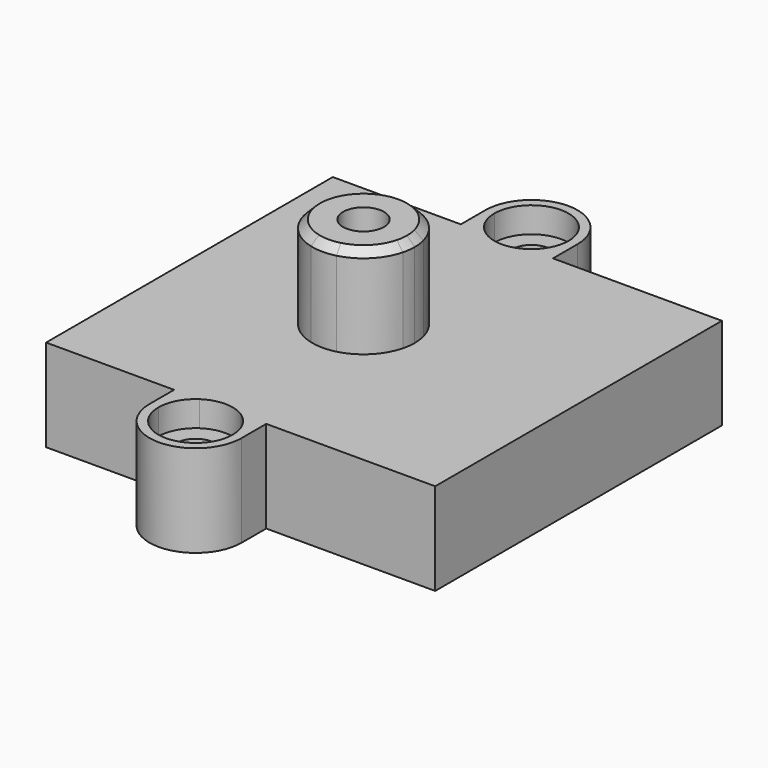
from build123d import *

# Parameters (mm, degrees)
F0_W     = 34
F0_H     = 31
F1_DEPTH = 9
F2_DEPTH = 6.5
F3_START = 6
F0_W_2   = 2.5
F0_H_2   = 3
F3_DEPTH = 3
F4_START = 6
F0_R     = 2
F4_DEPTH = 12
F5_SIZE  = 0.75
F6_SIZE  = 0.75


with BuildPart() as f1:
    # F0 (on Top) → F1 (new body)
    with BuildSketch(Plane.XY):
        with BuildLine():
            Line((-4.5, 17.5), (-17, 17.5))
            Line((-17, 17.5), (-17, -17.5))
            Line((-17, -17.5), (-4.5, -17.5))
            Line((-4.5, -17.5), (-2.0348525745, -17.5))
            ThreePointArc((-2.0348525745, -17.5), (0, -16.875), (2.0348525745, -17.5))
            Line((2.0348525745, -17.5), (4.5, -17.5))
            Line((4.5, -17.5), (21, -17.5))
            Line((21, -17.5), (21, 17.5))
            Line((21, 17.5), (4.5, 17.5))
            Line((4.5, 17.5), (2.0348525745, 17.5))
            ThreePointArc((2.0348525745, 17.5), (0, 16.875), (-2.0348525745, 17.5))
            Line((-2.0348525745, 17.5), (-4.5, 17.5))
        make_face()
        with Locations((2, 0)):
            Rectangle(F0_W, F0_H, mode=Mode.SUBTRACT)
        with BuildLine():
            Line((-4.5, 20.5), (-4.5, 17.5))
            Line((-4.5, 17.5), (-2.0348525745, 17.5))
            ThreePointArc((-2.0348525745, 17.5), (-3.2028866342, 18.8023126882), (-3.625, 20.5))
            Line((-3.625, 20.5), (-4.5, 20.5))
        make_face()
        with BuildLine():
            ThreePointArc((4.5, 20.5), (0, 25), (-4.5, 20.5))
            Line((-4.5, 20.5), (-3.625, 20.5))
            ThreePointArc((-3.625, 20.5), (0, 24.125), (3.625, 20.5))
            Line((3.625, 20.5), (4.5, 20.5))
        make_face()
        with BuildLine():
            ThreePointArc((3.625, 20.5), (3.2028866342, 18.8023126882), (2.0348525745, 17.5))
            Line((2.0348525745, 17.5), (4.5, 17.5))
            Line((4.5, 17.5), (4.5, 20.5))
            Line((4.5, 20.5), (3.625, 20.5))
        make_face()
        with BuildLine():
            Line((4.5, -17.5), (2.0348525745, -17.5))
            ThreePointArc((2.0348525745, -17.5), (3.2028866342, -18.8023126882), (3.625, -20.5))
            Line((3.625, -20.5), (4.5, -20.5))
            Line((4.5, -20.5), (4.5, -17.5))
        make_face()
        with BuildLine():
            Line((-2.0348525745, -17.5), (-4.5, -17.5))
            Line((-4.5, -17.5), (-4.5, -20.5))
            Line((-4.5, -20.5), (-3.625, -20.5))
            ThreePointArc((-3.625, -20.5), (-3.2028866342, -18.8023126882), (-2.0348525745, -17.5))
        make_face()
        with BuildLine():
            Line((-3.625, -20.5), (-4.5, -20.5))
            ThreePointArc((-4.5, -20.5), (0, -25), (4.5, -20.5))
            Line((4.5, -20.5), (3.625, -20.5))
            ThreePointArc((3.625, -20.5), (0, -24.125), (-3.625, -20.5))
        make_face()
    extrude(amount=F1_DEPTH)

    # F0 (on Top) → F2 (join)
    with BuildSketch(Plane.XY):
        with BuildLine():
            ThreePointArc((-3.625, 20.5), (-3.2028866342, 18.8023126882), (-2.0348525745, 17.5))
            Line((-2.0348525745, 17.5), (2.0348525745, 17.5))
            ThreePointArc((2.0348525745, 17.5), (3.2028866342, 18.8023126882), (3.625, 20.5))
            Line((3.625, 20.5), (1.875, 20.5))
            ThreePointArc((1.875, 20.5), (0, 18.625), (-1.875, 20.5))
            Line((-1.875, 20.5), (-3.625, 20.5))
        make_face()
        with BuildLine():
            Line((2.0348525745, 17.5), (-2.0348525745, 17.5))
            ThreePointArc((-2.0348525745, 17.5), (0, 16.875), (2.0348525745, 17.5))
        make_face()
        with BuildLine():
            ThreePointArc((3.625, 20.5), (0, 24.125), (-3.625, 20.5))
            Line((-3.625, 20.5), (-1.875, 20.5))
            ThreePointArc((-1.875, 20.5), (0, 22.375), (1.875, 20.5))
            Line((1.875, 20.5), (3.625, 20.5))
        make_face()
        with BuildLine():
            Line((2.0348525745, -17.5), (-2.0348525745, -17.5))
            ThreePointArc((-2.0348525745, -17.5), (-3.2028866342, -18.8023126882), (-3.625, -20.5))
            Line((-3.625, -20.5), (-1.875, -20.5))
            ThreePointArc((-1.875, -20.5), (0, -18.625), (1.875, -20.5))
            Line((1.875, -20.5), (3.625, -20.5))
            ThreePointArc((3.625, -20.5), (3.2028866342, -18.8023126882), (2.0348525745, -17.5))
        make_face()
        with BuildLine():
            ThreePointArc((2.0348525745, -17.5), (0, -16.875), (-2.0348525745, -17.5))
            Line((-2.0348525745, -17.5), (2.0348525745, -17.5))
        make_face()
        with BuildLine():
            Line((-1.875, -20.5), (-3.625, -20.5))
            ThreePointArc((-3.625, -20.5), (0, -24.125), (3.625, -20.5))
            Line((3.625, -20.5), (1.875, -20.5))
            ThreePointArc((1.875, -20.5), (0, -22.375), (-1.875, -20.5))
        make_face()
    extrude(amount=F2_DEPTH)

    # F0 (on Top) → F3 (join)
    with BuildSketch(Plane.XY.offset(F3_START)):
        with Locations((2, 0)):
            Rectangle(F0_W, F0_H)
        with BuildLine():
            ThreePointArc((1.25, 4.8412291828), (3.5355339059, 3.5355339059), (4.8412291828, 1.25))
            Line((4.8412291828, 1.25), (11.5, 1.25))
            Line((11.5, 1.25), (11.5, 4.25))
            Line((11.5, 4.25), (14, 4.25))
            Line((14, 4.25), (14, 1.25))
            Line((14, 1.25), (14, -1.25))
            Line((14, -1.25), (14, -4.25))
            Line((14, -4.25), (11.5, -4.25))
            Line((11.5, -4.25), (11.5, -1.25))
            Line((11.5, -1.25), (4.8412291828, -1.25))
            ThreePointArc((4.8412291828, -1.25), (3.5355339059, -3.5355339059), (1.25, -4.8412291828))
            Line((1.25, -4.8412291828), (1.25, -8))
            Line((1.25, -8), (15, -8))
            Line((15, -8), (15, -10.5))
            Line((15, -10.5), (-11, -10.5))
            Line((-11, -10.5), (-11, -8))
            Line((-11, -8), (-1.25, -8))
            Line((-1.25, -8), (-1.25, -4.8412291828))
            ThreePointArc((-1.25, -4.8412291828), (-3.5355339059, -3.5355339059), (-4.8412291828, -1.25))
            Line((-4.8412291828, -1.25), (-7.5, -1.25))
            Line((-7.5, -1.25), (-7.5, -4.25))
            Line((-7.5, -4.25), (-10, -4.25))
            Line((-10, -4.25), (-10, -1.25))
            Line((-10, -1.25), (-10, 1.25))
            Line((-10, 1.25), (-10, 4.25))
            Line((-10, 4.25), (-7.5, 4.25))
            Line((-7.5, 4.25), (-7.5, 1.25))
            Line((-7.5, 1.25), (-4.8412291828, 1.25))
            ThreePointArc((-4.8412291828, 1.25), (-3.5355339059, 3.5355339059), (-1.25, 4.8412291828))
            Line((-1.25, 4.8412291828), (-1.25, 8))
            Line((-1.25, 8), (-11, 8))
            Line((-11, 8), (-11, 10.5))
            Line((-11, 10.5), (15, 10.5))
            Line((15, 10.5), (15, 8))
            Line((15, 8), (1.25, 8))
            Line((1.25, 8), (1.25, 4.8412291828))
        make_face(mode=Mode.SUBTRACT)
        with Locations((-8.75, 2.75)):
            Rectangle(F0_W_2, F0_H_2)
        with BuildLine():
            ThreePointArc((-4.8412291828, -1.25), (-5, 0), (-4.8412291828, 1.25))
            Line((-4.8412291828, 1.25), (-7.5, 1.25))
            Line((-7.5, 1.25), (-10, 1.25))
            Line((-10, 1.25), (-10, -1.25))
            Line((-10, -1.25), (-7.5, -1.25))
            Line((-7.5, -1.25), (-4.8412291828, -1.25))
        make_face()
        with Locations((-8.75, -2.75)):
            Rectangle(F0_W_2, F0_H_2)
        Polygon((15, -8), (1.25, -8), (-1.25, -8), (-11, -8), (-11, -10.5), (15, -10.5), align=None)
        with BuildLine():
            Line((1.25, -8), (1.25, -4.8412291828))
            ThreePointArc((1.25, -4.8412291828), (0, -5), (-1.25, -4.8412291828))
            Line((-1.25, -4.8412291828), (-1.25, -8))
            Line((-1.25, -8), (1.25, -8))
        make_face()
        with Locations((12.75, -2.75)):
            Rectangle(F0_W_2, F0_H_2)
        with Locations((12.75, 2.75)):
            Rectangle(F0_W_2, F0_H_2)
        with BuildLine():
            ThreePointArc((4.8412291828, 1.25), (4.9601484813, 0.6300214624), (5, 0))
            ThreePointArc((5, 0), (4.9601484813, -0.6300214624), (4.8412291828, -1.25))
            Line((4.8412291828, -1.25), (11.5, -1.25))
            Line((11.5, -1.25), (14, -1.25))
            Line((14, -1.25), (14, 1.25))
            Line((14, 1.25), (11.5, 1.25))
            Line((11.5, 1.25), (4.8412291828, 1.25))
        make_face()
        Polygon((-1.25, 8), (1.25, 8), (15, 8), (15, 10.5), (-11, 10.5), (-11, 8), align=None)
        with BuildLine():
            ThreePointArc((-1.25, 4.8412291828), (0, 5), (1.25, 4.8412291828))
            Line((1.25, 4.8412291828), (1.25, 8))
            Line((1.25, 8), (-1.25, 8))
            Line((-1.25, 8), (-1.25, 4.8412291828))
        make_face()
    extrude(amount=F3_DEPTH)

    # F0 (on Top) → F4 (join)
    with BuildSketch(Plane.XY.offset(F4_START)):
        with BuildLine():
            Line((2.5, 1.25), (4.8412291828, 1.25))
            ThreePointArc((4.8412291828, 1.25), (3.5355339059, 3.5355339059), (1.25, 4.8412291828))
            Line((1.25, 4.8412291828), (1.25, 2.5))
            Line((1.25, 2.5), (-1.25, 2.5))
            Line((-1.25, 2.5), (-1.25, 4.8412291828))
            ThreePointArc((-1.25, 4.8412291828), (-3.5355339059, 3.5355339059), (-4.8412291828, 1.25))
            Line((-4.8412291828, 1.25), (-2.5, 1.25))
            Line((-2.5, 1.25), (-2.5, -1.25))
            Line((-2.5, -1.25), (-4.8412291828, -1.25))
            ThreePointArc((-4.8412291828, -1.25), (-3.5355339059, -3.5355339059), (-1.25, -4.8412291828))
            Line((-1.25, -4.8412291828), (-1.25, -2.5))
            Line((-1.25, -2.5), (1.25, -2.5))
            Line((1.25, -2.5), (1.25, -4.8412291828))
            ThreePointArc((1.25, -4.8412291828), (3.5355339059, -3.5355339059), (4.8412291828, -1.25))
            Line((4.8412291828, -1.25), (2.5, -1.25))
            Line((2.5, -1.25), (2.5, 1.25))
        make_face()
        Circle(F0_R, mode=Mode.SUBTRACT)
        with BuildLine():
            Line((-2.5, 1.25), (-4.8412291828, 1.25))
            ThreePointArc((-4.8412291828, 1.25), (-5, 0), (-4.8412291828, -1.25))
            Line((-4.8412291828, -1.25), (-2.5, -1.25))
            Line((-2.5, -1.25), (-2.5, 1.25))
        make_face()
        with BuildLine():
            ThreePointArc((-1.25, -4.8412291828), (0, -5), (1.25, -4.8412291828))
            Line((1.25, -4.8412291828), (1.25, -2.5))
            Line((1.25, -2.5), (-1.25, -2.5))
            Line((-1.25, -2.5), (-1.25, -4.8412291828))
        make_face()
        with BuildLine():
            ThreePointArc((4.8412291828, -1.25), (4.9601484813, -0.6300214624), (5, 0))
            ThreePointArc((5, 0), (4.9601484813, 0.6300214624), (4.8412291828, 1.25))
            Line((4.8412291828, 1.25), (2.5, 1.25))
            Line((2.5, 1.25), (2.5, -1.25))
            Line((2.5, -1.25), (4.8412291828, -1.25))
        make_face()
        with BuildLine():
            Line((1.25, 2.5), (1.25, 4.8412291828))
            ThreePointArc((1.25, 4.8412291828), (0, 5), (-1.25, 4.8412291828))
            Line((-1.25, 4.8412291828), (-1.25, 2.5))
            Line((-1.25, 2.5), (1.25, 2.5))
        make_face()
    extrude(amount=F4_DEPTH)

    # F5
    f5_edges = [f1.edges().sort_by_distance(p)[0] for p in [
        (-1.25, -4.841229, 18),
    ]]
    chamfer(f5_edges, length=F5_SIZE)

    # F6
    f6_edges = [f1.edges().sort_by_distance(p)[0] for p in [
        (1.875, 20.5, 0),
    ]]
    chamfer(f6_edges, length=F6_SIZE)


solid = f1.part
